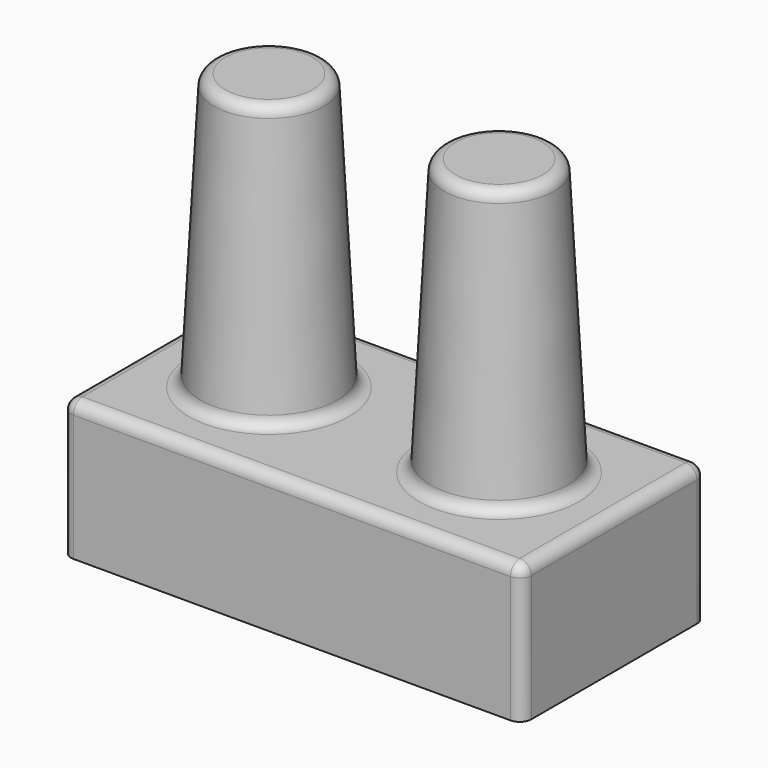
from build123d import *

# Parameters (mm, degrees)
F0_W     = 127
F0_H     = 63.5
F1_DEPTH = 38.1
F5_R     = 19.05
F2_DEPTH = 76.2
F2_TAPER = 3
F3_R     = 3.175
F4_T     = -1.5875


with BuildPart() as f1:
    # F0 (on Top) → F1 (new body)
    with BuildSketch(Plane.XY):
        Rectangle(F0_W, F0_H)
    extrude(amount=F1_DEPTH)

    # F5 (on face) → F2 (join)
    with BuildSketch(Plane.XY.offset(38.1)):
        with Locations((-31.75, 0)):
            Circle(F5_R)
        with Locations((31.75, 0)):
            Circle(F5_R)
    extrude(amount=F2_DEPTH, taper=F2_TAPER)

    # F3
    f3_edges = [f1.edges().sort_by_distance(p)[0] for p in [
        (12.7, 0, 38.1),
        (48.803264, 0, 76.2),
        (16.693473, 0, 114.3),
        (-50.8, 0, 38.1),
        (-14.696736, 0, 76.2),
        (-46.806527, 0, 114.3),
        (63.5, 0, 38.1),
        (0, -31.75, 38.1),
        (0, 31.75, 38.1),
        (-63.5, 0, 38.1),
        (-63.5, -31.75, 19.05),
        (-63.5, 31.75, 19.05),
        (63.5, 31.75, 19.05),
        (63.5, -31.75, 19.05),
    ]]
    fillet(f3_edges, radius=F3_R)

    # F4
    f4_openings = [f1.faces().sort_by_distance(p)[0] for p in [
        (0, 0, 0),
    ]]
    offset(amount=F4_T, openings=f4_openings)


solid = f1.part
